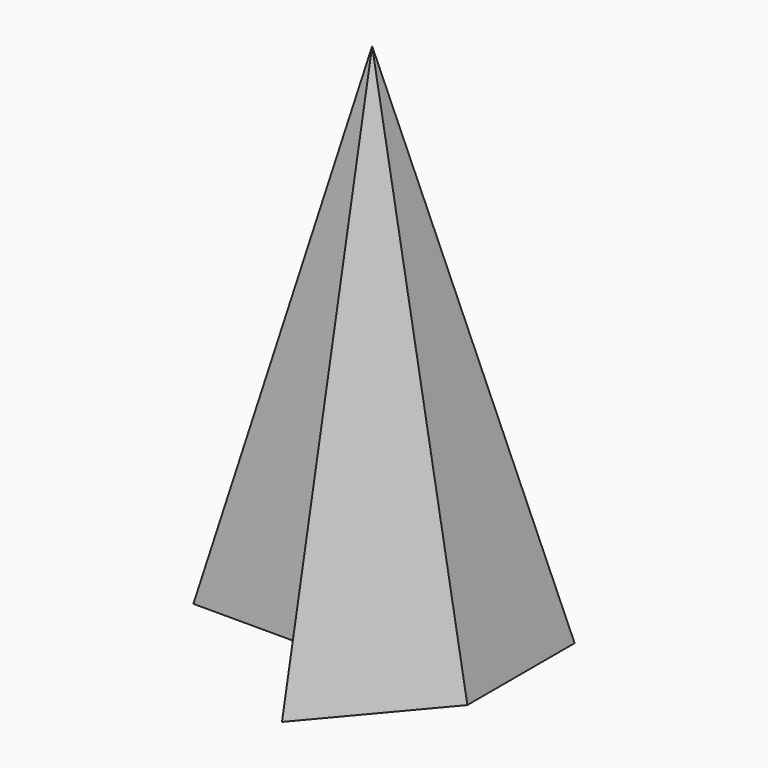
from build123d import *


with BuildPart() as f3:
    # F0 (on Top) → F3 section 0
    with BuildSketch(Plane.XY, mode=Mode.PRIVATE) as f3_s0:
        Polygon((-5.12764, 29.435955), (-35.222251, 0), (0, 0), (0, -22.203663), (18.767597, 0), (18.767597, 26.410384), (8.068045, 15.945004), align=None)
    loft([Vertex(0, 0, 108.204), f3_s0.sketch])


solid = f3.part
